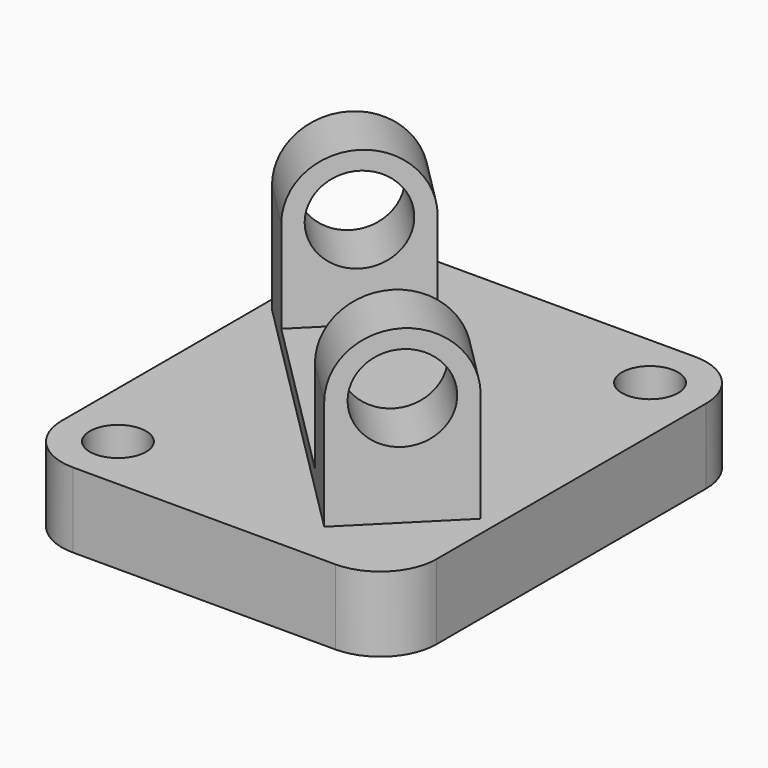
from build123d import *

# Parameters (mm, degrees)
F1_DEPTH = 50.8
F4_R     = 29.21
F5_DEPTH = 250.19
F6_W     = 161.29
F6_H     = 41.656
F6_H_2   = 62.738
F7_DEPTH = 243.5455460034
F8_D     = 38.1


with BuildPart() as f1:
    # F0 (on Top) → F1 (new body)
    with BuildSketch(Plane.XY):
        with BuildLine():
            ThreePointArc((0, 38.1), (11.1592316368, 11.1592316368), (38.1, 0))
            Line((38.1, 0), (215.9, 0))
            ThreePointArc((215.9, 0), (242.8407683632, 11.1592316368), (254, 38.1))
            Line((254, 38.1), (254, 266.7))
            ThreePointArc((254, 266.7), (242.8407683632, 293.6407683632), (215.9, 304.8))
            Line((215.9, 304.8), (38.1, 304.8))
            ThreePointArc((38.1, 304.8), (11.1592316368, 293.6407683632), (0, 266.7))
            Line((0, 266.7), (0, 38.1))
        make_face()
    extrude(amount=F1_DEPTH)

    # F4 (on line) → F5 (join, through all)
    with BuildSketch(Plane(origin=(77.216, -77.216, 0), x_dir=(-0.7071067812, -0.7071067812, 0), z_dir=(-0.7071067812, 0.7071067812, 0))):
        with BuildLine():
            Line((-234.8987233236, 125.222), (-234.8987233236, 50.8))
            Line((-234.8987233236, 50.8), (-151.5867233236, 50.8))
            Line((-151.5867233236, 50.8), (-151.5867233236, 125.222))
            ThreePointArc((-151.5867233236, 125.222), (-193.2427233236, 166.878), (-234.8987233236, 125.222))
        make_face()
        with Locations((-193.2427233236, 125.222)):
            Circle(F4_R, mode=Mode.SUBTRACT)
    extrude(amount=F5_DEPTH)

    # F6 (on face) → F7 (cut, through all)
    with BuildSketch(Plane(origin=(107.188, 107.188, 0), x_dir=(0.7071067812, -0.7071067812, 0), z_dir=(-0.7071067812, -0.7071067812, 0))):
        with Locations((-15.8950855678, 146.05)):
            Rectangle(F6_W, F6_H)
        with Locations((-15.8950855678, 93.853)):
            Rectangle(F6_W, F6_H_2)
    extrude(amount=-F7_DEPTH, mode=Mode.SUBTRACT)

    # F8 (through all)
    with Locations(Plane.XY.offset(50.8)):
        with Locations((38.1, 38.1), (215.9, 266.7)):
            Hole(F8_D / 2)


solid = f1.part
